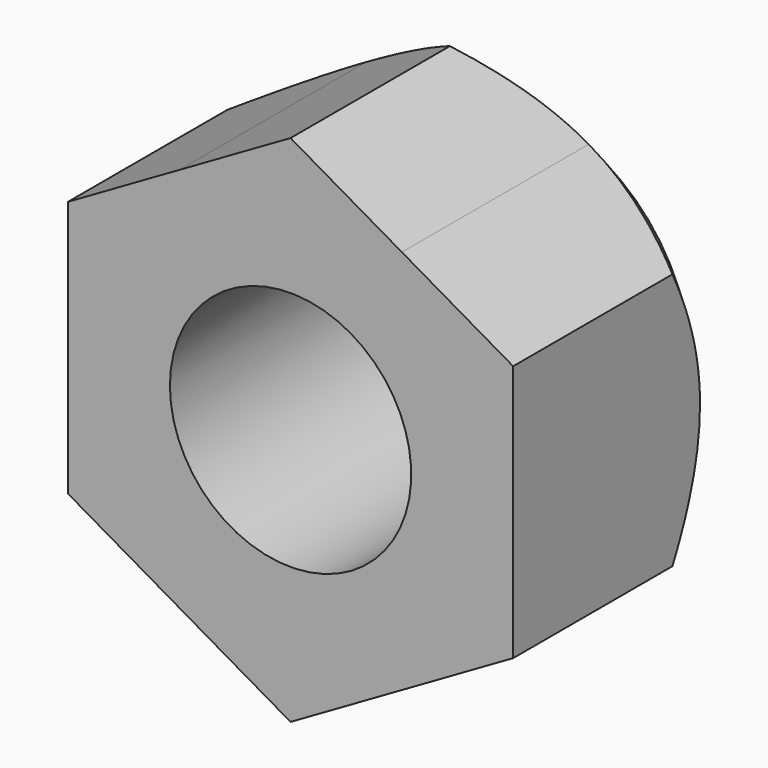
from build123d import *

# Parameters (mm, degrees)
F3_DEPTH = 12.001
F4_D     = 10.3


with BuildPart() as f2:
    # F1 (on Right) → F2 (revolve)
    with BuildSketch(Plane.YZ):
        Polygon((0, 9.5), (0, 0), (12, 0), (12, 7.4696551146), (8.5, 10.9696551146), (0, 10.9696551146), align=None)
    revolve(axis=Axis((0, 6, 0), (0, 1, 0)))

    # F0 (on Front) → F3 (cut, through all)
    with BuildSketch(Plane.XZ):
        with BuildLine():
            Line((-9.5, -5.4848275573), (-9.5, 0))
            Line((-9.5, 0), (-9.5, 5.4848275573))
            ThreePointArc((-9.5, 5.4848275573), (-10.9696551146, 0), (-9.5, -5.4848275573))
        make_face()
        with BuildLine():
            Line((-9.5, 5.4848275573), (-4.7499997625, 8.2272414731))
            Line((-4.7499997625, 8.2272414731), (0, 10.9696551146))
            ThreePointArc((0, 10.9696551146), (-5.4848275573, 9.5), (-9.5, 5.4848275573))
        make_face()
        with BuildLine():
            Line((0, 10.9696551146), (4.7499998306, 8.2272414337))
            Line((4.7499998306, 8.2272414337), (9.5, 5.4848275573))
            ThreePointArc((9.5, 5.4848275573), (5.4848275573, 9.5), (0, 10.9696551146))
        make_face()
        with BuildLine():
            Line((9.5, 5.4848275573), (9.5, 0))
            Line((9.5, 0), (9.5, -5.4848275573))
            ThreePointArc((9.5, -5.4848275573), (10.5958731807, -2.8391556619), (10.9696551146, 0))
            ThreePointArc((10.9696551146, 0), (10.5958731807, 2.8391556619), (9.5, 5.4848275573))
        make_face()
        with BuildLine():
            Line((9.5, -5.4848275573), (4.7499998306, -8.2272414337))
            Line((4.7499998306, -8.2272414337), (0, -10.9696551146))
            ThreePointArc((0, -10.9696551146), (5.4848275573, -9.5), (9.5, -5.4848275573))
        make_face()
        with BuildLine():
            Line((0, -10.9696551146), (-4.749999949, -8.2272413654))
            Line((-4.749999949, -8.2272413654), (-9.5, -5.4848275573))
            ThreePointArc((-9.5, -5.4848275573), (-5.4848275573, -9.5), (0, -10.9696551146))
        make_face()
    extrude(amount=-F3_DEPTH, mode=Mode.SUBTRACT)

    # F4 (through all)
    with Locations(Plane.XZ):
        with Locations((0, 0)):
            Hole(F4_D / 2)


solid = f2.part
